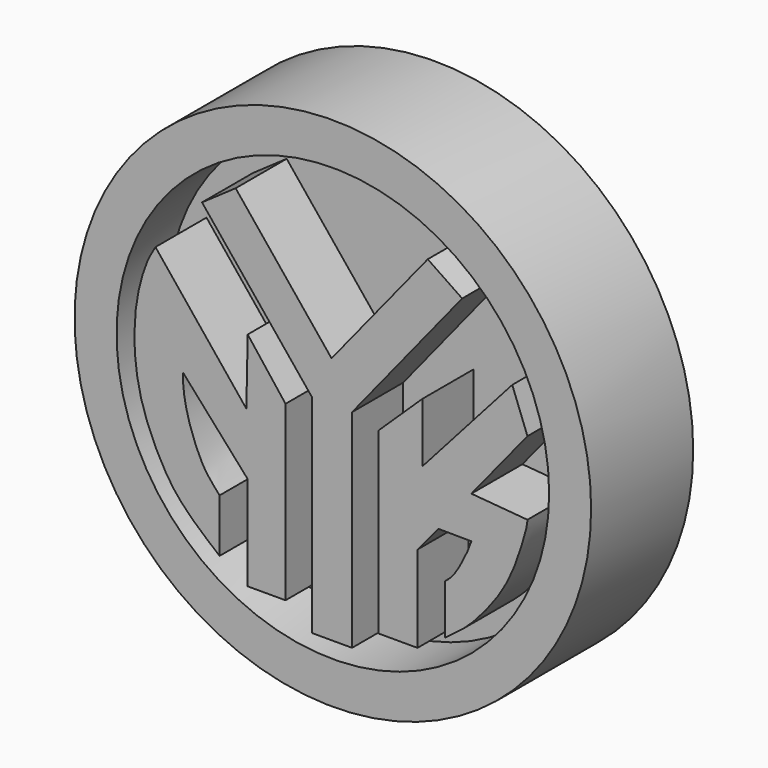
from build123d import *

# Parameters (mm, degrees)
F0_R     = 25.7096861459
F0_R_2   = 21.5291868396
F1_DEPTH = 12.7
F2_DEPTH = 6.35


with BuildPart() as f1:
    # F0 (on Front) → F1 (new body)
    with BuildSketch(Plane.XZ):
        with Locations((-4.1097430512, 0.6892834396)):
            Circle(F0_R)
        with Locations((-4.1097430512, 0.6892834396)):
            Circle(F0_R_2, mode=Mode.SUBTRACT)
        with Locations((-4.1097430512, 0.6892834396)):
            Circle(F0_R_2)
        with BuildLine():
            add(Edge.make_bspline(
                [(-21.7646267265, 9.5272203907), (-22.0361650363, 9.0544517802), (-22.5884434109, 8.0928936123), (-23.1549316669, 6.4432599282), (-23.7184446326, 4.0522965999), (-23.8577617277, 1.6539462794), (-23.873036412, -0.6564562902), (-23.37210285, -3.8672122774), (-22.351295624, -6.8736988545), (-20.4256595912, -10.740114232), (-18.0343458286, -13.2630401234), (-16.2631639399, -14.7318578221), (-15.3828011826, -15.4619310051)],
                knots=[0, 0, 0, 0, 0.0768675769, 0.1563400039, 0.2507506226, 0.3440400191, 0.4356860283, 0.542918844, 0.6517355024, 0.7760210951, 0.88867169, 1, 1, 1, 1], degree=3))
            Line((-21.7646267265, 9.5272203907), (-12.7189774066, -1.692944672))
            Line((-12.7189774066, -1.692944672), (-12.5821670517, 4.8544136807))
            Line((-12.5821670517, 4.8544136807), (-8.8198259473, 0))
            Line((-8.8198259473, 0), (-8.8198259473, -17.2167737037))
            Line((-8.8198259473, -17.2167737037), (-12.5821670517, -17.2167737037))
            Line((-12.5821670517, -17.2167737037), (-12.5821670517, -7.8245121986))
            Line((-12.5821670517, -7.8245121986), (-19.0072003752, -0.591270742))
            add(Edge.make_bspline(
                [(-19.0072003752, -0.591270742), (-19.0529774008, -1.3011197697), (-18.8961779325, -3.0224064452), (-18.1968595875, -5.5618282654), (-16.9006426097, -8.6077330024), (-15.8092020333, -9.6299122724), (-15.3828011826, -10.1572088897)],
                knots=[0, 0, 0, 0, 0.2376816547, 0.494126058, 0.7736790575, 1, 1, 1, 1], degree=3))
            Line((-15.3828011826, -10.1572088897), (-15.3828011826, -15.4619310051))
        make_face(mode=Mode.SUBTRACT)
        Polygon((-6.1660036445, -19.2273277789), (-6.1660036445, -19.0120320767), (-6.1660036445, 1.4170210343), (-17.1303842217, 14.948152937), (-13.7848015875, 17.2754023224), (-4.2383992113, 5.4741743952), (5.3372876719, 17.2754023224), (8.7634501979, 14.948152937), (-2.1964707835, 1.426110025), (-2.1964707835, -19.2273277789), align=None, mode=Mode.SUBTRACT)
        with BuildLine():
            Line((0.4468376574, -17.1141084284), (0.4468376574, 0.6865304422))
            Line((0.4468376574, 0.6865304422), (4.7943019308, 4.8586851917))
            Line((4.7943019308, 4.8586851917), (4.7943019308, -1.0591812897))
            Line((4.7943019308, -1.0591812897), (13.7482034042, 9.0009113774))
            Line((13.7482034042, 9.0009113774), (15.2618186548, 4.9968691602))
            Line((15.2618186548, 4.9968691602), (9.6785612404, -1.8568894593))
            Line((9.6785612404, -1.8568894593), (15.2618186548, -2.3267676588))
            add(Edge.make_bspline(
                [(7.0791435428, -15.3138078749), (7.6633822301, -14.891566438), (8.8605857195, -14.0262415468), (10.5105583239, -12.413425436), (12.4261537458, -9.9596070935), (13.742152602, -7.5968455621), (14.7711233204, -4.5638277141), (15.2065390721, -3.0454047956), (15.2618186548, -2.3267676588)],
                knots=[0, 0, 0, 0, 0.1516433597, 0.3087204032, 0.4892664729, 0.6610846718, 0.8445997083, 1, 1, 1, 1], degree=3))
            Line((7.0791435428, -15.3138078749), (7.0791435428, -10.3469491005))
            add(Edge.make_bspline(
                [(9.6785612404, -6.0305129737), (9.5054491582, -6.5825324176), (9.0547490041, -7.5936580594), (8.125887942, -9.3747254345), (7.432360992, -10.108098995), (7.0791435428, -10.3469491005)],
                knots=[0, 0, 0, 0, 0.3349951173, 0.6974045589, 1, 1, 1, 1], degree=3))
            Line((9.6785612404, -6.0305129737), (6.4170542173, -6.0028731823))
            Line((6.4170542173, -6.0028731823), (4.316422157, -8.4956227616))
            Line((4.316422157, -8.4956227616), (4.316422157, -17.1141084284))
            Line((4.316422157, -17.1141084284), (0.4468376574, -17.1141084284))
        make_face(mode=Mode.SUBTRACT)
        with BuildLine():
            Line((-12.7189774066, -1.692944672), (-21.7646267265, 9.5272203907))
            add(Edge.make_bspline(
                [(-21.7646267265, 9.5272203907), (-22.0361650363, 9.0544517802), (-22.5884434109, 8.0928936123), (-23.1549316669, 6.4432599282), (-23.7184446326, 4.0522965999), (-23.8577617277, 1.6539462794), (-23.873036412, -0.6564562902), (-23.37210285, -3.8672122774), (-22.351295624, -6.8736988545), (-20.4256595912, -10.740114232), (-18.0343458286, -13.2630401234), (-16.2631639399, -14.7318578221), (-15.3828011826, -15.4619310051)],
                knots=[0, 0, 0, 0, 0.0768675769, 0.1563400039, 0.2507506226, 0.3440400191, 0.4356860283, 0.542918844, 0.6517355024, 0.7760210951, 0.88867169, 1, 1, 1, 1], degree=3))
            Line((-15.3828011826, -15.4619310051), (-15.3828011826, -10.1572088897))
            add(Edge.make_bspline(
                [(-19.0072003752, -0.591270742), (-19.0529774008, -1.3011197697), (-18.8961779325, -3.0224064452), (-18.1968595875, -5.5618282654), (-16.9006426097, -8.6077330024), (-15.8092020333, -9.6299122724), (-15.3828011826, -10.1572088897)],
                knots=[0, 0, 0, 0, 0.2376816547, 0.494126058, 0.7736790575, 1, 1, 1, 1], degree=3))
            Line((-19.0072003752, -0.591270742), (-12.5821670517, -7.8245121986))
            Line((-12.5821670517, -7.8245121986), (-12.5821670517, -17.2167737037))
            Line((-12.5821670517, -17.2167737037), (-8.8198259473, -17.2167737037))
            Line((-8.8198259473, -17.2167737037), (-8.8198259473, 0))
            Line((-8.8198259473, 0), (-12.5821670517, 4.8544136807))
            Line((-12.5821670517, 4.8544136807), (-12.7189774066, -1.692944672))
        make_face()
        Polygon((-6.1660036445, 1.4170210343), (-6.1660036445, -19.0120320767), (-6.1660036445, -19.2273277789), (-2.1964707835, -19.2273277789), (-2.1964707835, 1.426110025), (8.7634501979, 14.948152937), (5.3372876719, 17.2754023224), (-4.2383992113, 5.4741743952), (-13.7848015875, 17.2754023224), (-17.1303842217, 14.948152937), align=None)
        with BuildLine():
            Line((4.7943019308, 4.8586851917), (0.4468376574, 0.6865304422))
            Line((0.4468376574, 0.6865304422), (0.4468376574, -17.1141084284))
            Line((0.4468376574, -17.1141084284), (4.316422157, -17.1141084284))
            Line((4.316422157, -17.1141084284), (4.316422157, -8.4956227616))
            Line((4.316422157, -8.4956227616), (6.4170542173, -6.0028731823))
            Line((6.4170542173, -6.0028731823), (9.6785612404, -6.0305129737))
            add(Edge.make_bspline(
                [(9.6785612404, -6.0305129737), (9.5054491582, -6.5825324176), (9.0547490041, -7.5936580594), (8.125887942, -9.3747254345), (7.432360992, -10.108098995), (7.0791435428, -10.3469491005)],
                knots=[0, 0, 0, 0, 0.3349951173, 0.6974045589, 1, 1, 1, 1], degree=3))
            Line((7.0791435428, -10.3469491005), (7.0791435428, -15.3138078749))
            add(Edge.make_bspline(
                [(7.0791435428, -15.3138078749), (7.6633822301, -14.891566438), (8.8605857195, -14.0262415468), (10.5105583239, -12.413425436), (12.4261537458, -9.9596070935), (13.742152602, -7.5968455621), (14.7711233204, -4.5638277141), (15.2065390721, -3.0454047956), (15.2618186548, -2.3267676588)],
                knots=[0, 0, 0, 0, 0.1516433597, 0.3087204032, 0.4892664729, 0.6610846718, 0.8445997083, 1, 1, 1, 1], degree=3))
            Line((15.2618186548, -2.3267676588), (9.6785612404, -1.8568894593))
            Line((9.6785612404, -1.8568894593), (15.2618186548, 4.9968691602))
            Line((15.2618186548, 4.9968691602), (13.7482034042, 9.0009113774))
            Line((13.7482034042, 9.0009113774), (4.7943019308, -1.0591812897))
            Line((4.7943019308, -1.0591812897), (4.7943019308, 4.8586851917))
        make_face()
    extrude(amount=-F1_DEPTH)

    # F0 (on Front) → F2 (cut)
    with BuildSketch(Plane.XZ):
        with Locations((-4.1097430512, 0.6892834396)):
            Circle(F0_R_2)
        with BuildLine():
            add(Edge.make_bspline(
                [(-21.7646267265, 9.5272203907), (-22.0361650363, 9.0544517802), (-22.5884434109, 8.0928936123), (-23.1549316669, 6.4432599282), (-23.7184446326, 4.0522965999), (-23.8577617277, 1.6539462794), (-23.873036412, -0.6564562902), (-23.37210285, -3.8672122774), (-22.351295624, -6.8736988545), (-20.4256595912, -10.740114232), (-18.0343458286, -13.2630401234), (-16.2631639399, -14.7318578221), (-15.3828011826, -15.4619310051)],
                knots=[0, 0, 0, 0, 0.0768675769, 0.1563400039, 0.2507506226, 0.3440400191, 0.4356860283, 0.542918844, 0.6517355024, 0.7760210951, 0.88867169, 1, 1, 1, 1], degree=3))
            Line((-21.7646267265, 9.5272203907), (-12.7189774066, -1.692944672))
            Line((-12.7189774066, -1.692944672), (-12.5821670517, 4.8544136807))
            Line((-12.5821670517, 4.8544136807), (-8.8198259473, 0))
            Line((-8.8198259473, 0), (-8.8198259473, -17.2167737037))
            Line((-8.8198259473, -17.2167737037), (-12.5821670517, -17.2167737037))
            Line((-12.5821670517, -17.2167737037), (-12.5821670517, -7.8245121986))
            Line((-12.5821670517, -7.8245121986), (-19.0072003752, -0.591270742))
            add(Edge.make_bspline(
                [(-19.0072003752, -0.591270742), (-19.0529774008, -1.3011197697), (-18.8961779325, -3.0224064452), (-18.1968595875, -5.5618282654), (-16.9006426097, -8.6077330024), (-15.8092020333, -9.6299122724), (-15.3828011826, -10.1572088897)],
                knots=[0, 0, 0, 0, 0.2376816547, 0.494126058, 0.7736790575, 1, 1, 1, 1], degree=3))
            Line((-15.3828011826, -10.1572088897), (-15.3828011826, -15.4619310051))
        make_face(mode=Mode.SUBTRACT)
        Polygon((-6.1660036445, -19.2273277789), (-6.1660036445, -19.0120320767), (-6.1660036445, 1.4170210343), (-17.1303842217, 14.948152937), (-13.7848015875, 17.2754023224), (-4.2383992113, 5.4741743952), (5.3372876719, 17.2754023224), (8.7634501979, 14.948152937), (-2.1964707835, 1.426110025), (-2.1964707835, -19.2273277789), align=None, mode=Mode.SUBTRACT)
        with BuildLine():
            Line((0.4468376574, -17.1141084284), (0.4468376574, 0.6865304422))
            Line((0.4468376574, 0.6865304422), (4.7943019308, 4.8586851917))
            Line((4.7943019308, 4.8586851917), (4.7943019308, -1.0591812897))
            Line((4.7943019308, -1.0591812897), (13.7482034042, 9.0009113774))
            Line((13.7482034042, 9.0009113774), (15.2618186548, 4.9968691602))
            Line((15.2618186548, 4.9968691602), (9.6785612404, -1.8568894593))
            Line((9.6785612404, -1.8568894593), (15.2618186548, -2.3267676588))
            add(Edge.make_bspline(
                [(7.0791435428, -15.3138078749), (7.6633822301, -14.891566438), (8.8605857195, -14.0262415468), (10.5105583239, -12.413425436), (12.4261537458, -9.9596070935), (13.742152602, -7.5968455621), (14.7711233204, -4.5638277141), (15.2065390721, -3.0454047956), (15.2618186548, -2.3267676588)],
                knots=[0, 0, 0, 0, 0.1516433597, 0.3087204032, 0.4892664729, 0.6610846718, 0.8445997083, 1, 1, 1, 1], degree=3))
            Line((7.0791435428, -15.3138078749), (7.0791435428, -10.3469491005))
            add(Edge.make_bspline(
                [(9.6785612404, -6.0305129737), (9.5054491582, -6.5825324176), (9.0547490041, -7.5936580594), (8.125887942, -9.3747254345), (7.432360992, -10.108098995), (7.0791435428, -10.3469491005)],
                knots=[0, 0, 0, 0, 0.3349951173, 0.6974045589, 1, 1, 1, 1], degree=3))
            Line((9.6785612404, -6.0305129737), (6.4170542173, -6.0028731823))
            Line((6.4170542173, -6.0028731823), (4.316422157, -8.4956227616))
            Line((4.316422157, -8.4956227616), (4.316422157, -17.1141084284))
            Line((4.316422157, -17.1141084284), (0.4468376574, -17.1141084284))
        make_face(mode=Mode.SUBTRACT)
    extrude(amount=-F2_DEPTH, mode=Mode.SUBTRACT)


solid = f1.part
